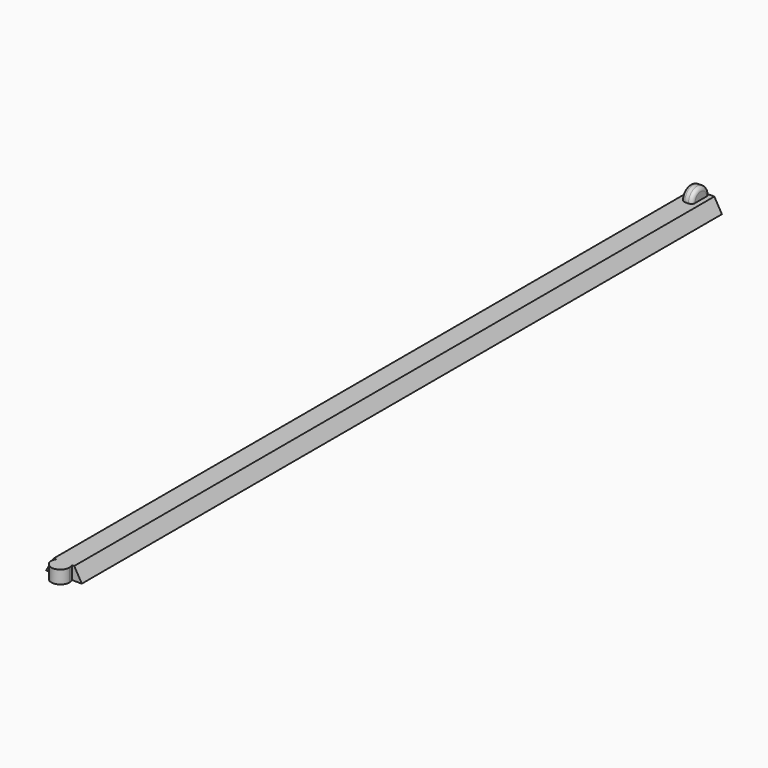
from build123d import *

# Parameters (mm, degrees)
F1_DEPTH = 219.5
F3_DEPTH = 3.6
F6_W     = 3
F6_H     = 3
F7_ANGLE = 180
F8_R     = 1


with BuildPart() as f1:
    # F0 (on Front) → F1 (new body)
    with BuildSketch(Plane.XZ):
        Polygon((2.0784609691, 3.6), (0, 0), (9.8, 0), (7.7215390309, 3.6), align=None)
    extrude(amount=F1_DEPTH)

    # F2 (on face) → F3 (join)
    with BuildSketch(Plane(origin=(0, 0, 0), x_dir=(1, 0, 0), z_dir=(0, 0, -1))):
        with BuildLine():
            ThreePointArc((7.0931712199, 219.5), (7.3220784514, 220.0806971863), (7.4, 220.7))
            ThreePointArc((7.4, 220.7), (4.2806971863, 223.1220784514), (2.7068287801, 219.5))
            Line((2.7068287801, 219.5), (7.0931712199, 219.5))
        make_face()
    extrude(amount=-F3_DEPTH)


with BuildPart() as f4_1:
    # F4: copy of F1
    add(f1.part)

    # F6 (on face) → F7 (revolve)
    with BuildSketch(Plane.XY.offset(3.6)):
        with Locations((4.9, -1.5)):
            Rectangle(F6_W, F6_H)
    revolve(axis=Axis((4.9, -3, 3.6), (1, 0, 0)), revolution_arc=F7_ANGLE)

    # F8
    f8_edges = [f4_1.edges().sort_by_distance(p)[0] for p in [
        (6.4, -3, 6.6),
        (3.4, -3, 6.6),
    ]]
    fillet(f8_edges, radius=F8_R)


solid = f4_1.part
